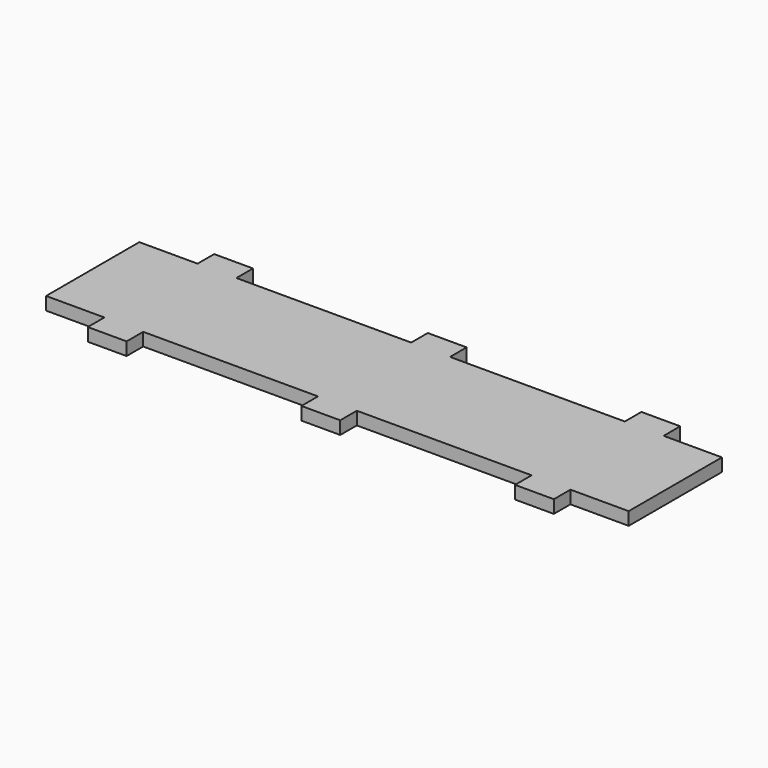
from build123d import *

# Parameters (mm, degrees)
F1_DEPTH = 5


with BuildPart() as f1:
    # F0 (on Top) → F1 (new body)
    with BuildSketch(Plane.XY):
        Polygon((112.5, 0), (-112.5, 0), (-112.5, -22.5), (-90, -22.5), (-90, -30.5), (-75, -30.5), (-75, -22.5), (-7.5, -22.5), (-7.5, -30.5), (7.5, -30.5), (7.5, -22.5), (75, -22.5), (75, -30.5), (90, -30.5), (90, -22.5), (112.5, -22.5), align=None)
        Polygon((-112.5, 22.5), (-112.5, 0), (112.5, 0), (112.5, 22.5), (90, 22.5), (90, 30.5), (75, 30.5), (75, 22.5), (7.5, 22.5), (7.5, 30.5), (-7.5, 30.5), (-7.5, 22.5), (-75, 22.5), (-75, 30.5), (-90, 30.5), (-90, 22.5), align=None)
    extrude(amount=F1_DEPTH)


solid = f1.part
